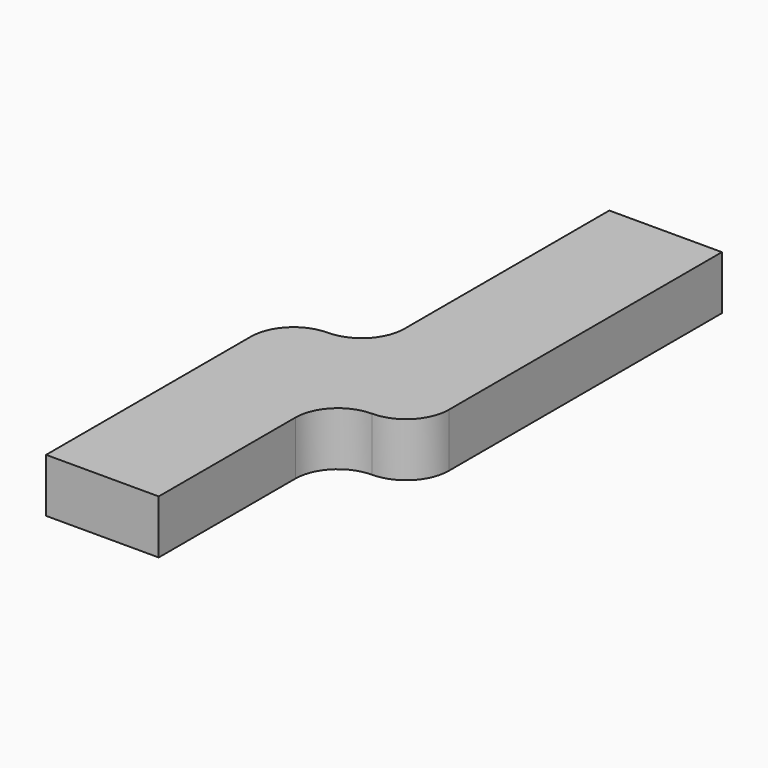
from build123d import *

# Parameters (mm, degrees)
F1_DEPTH = 6.3


with BuildPart() as f1:
    # F0 (on Top) → F1 (new body)
    with BuildSketch(Plane.XY):
        with BuildLine():
            Line((0, 30), (0, 0))
            Line((0, 0), (13.2, 0))
            Line((13.2, 0), (13.2, 20))
            ThreePointArc((13.2, 20), (14.664466, 23.535534), (18.2, 25))
            ThreePointArc((18.2, 25), (21.735534, 26.464466), (23.2, 30))
            Line((23.2, 30), (23.2, 70))
            Line((23.2, 70), (10, 70))
            Line((10, 70), (10, 40))
            ThreePointArc((10, 40), (8.535534, 36.464466), (5, 35))
            ThreePointArc((5, 35), (1.464466, 33.535534), (0, 30))
        make_face()
    extrude(amount=F1_DEPTH)


solid = f1.part
